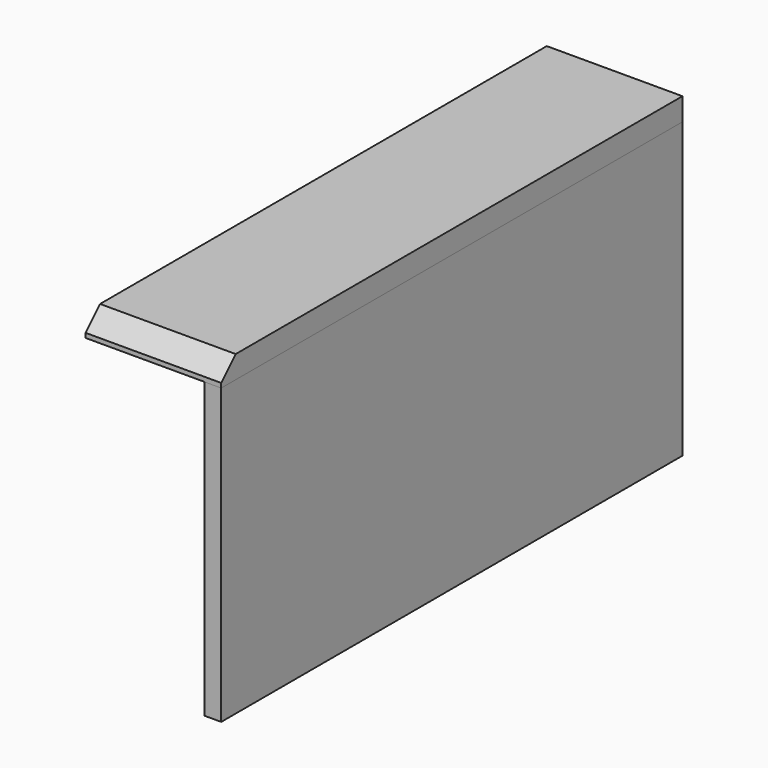
from build123d import *

# Parameters (mm, degrees)
F0_W     = 9.525
F0_H     = 165.1
F1_DEPTH = 323.85
F2_DEPTH = 323.85
F3_SIZE  = 10.16


with BuildPart() as f1:
    # F0 (on Front) → F1 (new body)
    with BuildSketch(Plane.XZ):
        with Locations((-4.7625, 82.55)):
            Rectangle(F0_W, F0_H)
    extrude(amount=F1_DEPTH)


with BuildPart() as f2:
    # F0 (on Front) → F2 (new body, through all)
    with BuildSketch(Plane.XZ):
        Polygon((-76.2, 165.1), (-9.525, 165.1), (0, 165.1), (0, 177.8), (-76.2, 177.8), align=None)
    extrude(amount=F2_DEPTH)

    # F3
    f3_edges = [f2.edges().sort_by_distance(p)[0] for p in [
        (-38.1, -323.85, 177.8),
    ]]
    chamfer(f3_edges, length=F3_SIZE)


solid = Compound([f1.part, f2.part])
